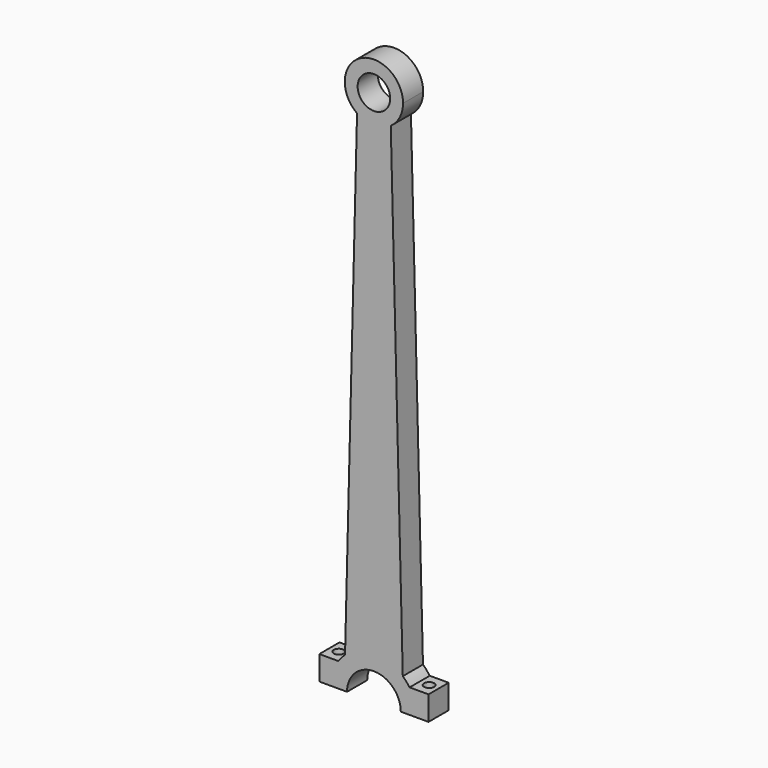
from build123d import *

# Parameters (mm, degrees)
F1_DEPTH = 1.27
F2_DEPTH = 1.27
F3_R     = 0.508
F4_R     = 0.508
F5_DEPTH = 25.4


with BuildPart() as f1:
    # F0 (on Front) → F1 (new body, symmetric)
    with BuildSketch(Plane.XZ):
        with BuildLine():
            ThreePointArc((1.6980241155, -2.3923439956), (0, -2.9337), (-1.6980241155, -2.3923439956))
            Line((-1.6980241155, -2.3923439956), (-2.906111014, -50.7841772133))
            ThreePointArc((-2.906111014, -50.7841772133), (0, -49.6643153071), (2.906111014, -50.7841772133))
            Line((2.906111014, -50.7841772133), (1.6980241155, -2.3923439956))
        make_face()
        with BuildLine():
            ThreePointArc((1.6980241155, -2.3923439956), (2.6065388006, -1.3463102061), (2.9337, 0))
            ThreePointArc((2.9337, 0), (-1.3463102061, 2.6065388006), (-1.6980241155, -2.3923439956))
            Line((-1.6980241155, -2.3923439956), (-1.6383, 0))
            ThreePointArc((-1.6383, 0), (0, 1.6383), (1.6383, 0))
            Line((1.6383, 0), (1.6980241155, -2.3923439956))
        make_face()
        with BuildLine():
            Line((-1.6383, 0), (-1.6980241155, -2.3923439956))
            ThreePointArc((-1.6980241155, -2.3923439956), (0, -2.9337), (1.6980241155, -2.3923439956))
            Line((1.6980241155, -2.3923439956), (1.6383, 0))
            ThreePointArc((1.6383, 0), (0, -1.6383), (-1.6383, 0))
        make_face()
        with BuildLine():
            ThreePointArc((2.906111014, -50.7841772133), (0, -49.6643153071), (-2.906111014, -50.7841772133))
            ThreePointArc((-2.906111014, -50.7841772133), (-3.273195149, -51.1593220926), (-3.5922005773, -51.5761193807))
            Line((-3.5922005773, -51.5761193807), (-3.5922005773, -53.9950153071))
            Line((-3.5922005773, -53.9950153071), (-2.7051, -53.9950153071))
            ThreePointArc((-2.7051, -53.9950153071), (0, -51.2899153071), (2.7051, -53.9950153071))
            Line((2.7051, -53.9950153071), (3.5922005773, -53.9950153071))
            Line((3.5922005773, -53.9950153071), (3.5922005773, -51.5761193807))
            ThreePointArc((3.5922005773, -51.5761193807), (3.273195149, -51.1593220926), (2.906111014, -50.7841772133))
        make_face()
        with BuildLine():
            ThreePointArc((4.3307, -53.9950153071), (4.1419624292, -52.7304562041), (3.5922005773, -51.5761193807))
            Line((3.5922005773, -51.5761193807), (3.5922005773, -53.9950153071))
            Line((3.5922005773, -53.9950153071), (4.3307, -53.9950153071))
        make_face()
        with BuildLine():
            Line((3.5922005773, -51.5533201396), (3.5922005773, -51.5761193807))
            ThreePointArc((3.5922005773, -51.5761193807), (4.1419624292, -52.7304562041), (4.3307, -53.9950153071))
            Line((4.3307, -53.9950153071), (5.4972005773, -53.9950153071))
            Line((5.4972005773, -53.9950153071), (5.4972005773, -51.5533201396))
            Line((5.4972005773, -51.5533201396), (3.5922005773, -51.5533201396))
        make_face()
        with BuildLine():
            Line((-3.5922005773, -53.9950153071), (-3.5922005773, -51.5761193807))
            ThreePointArc((-3.5922005773, -51.5761193807), (-4.1419624292, -52.7304562041), (-4.3307, -53.9950153071))
            Line((-4.3307, -53.9950153071), (-3.5922005773, -53.9950153071))
        make_face()
        with BuildLine():
            ThreePointArc((-4.3307, -53.9950153071), (-4.1419624292, -52.7304562041), (-3.5922005773, -51.5761193807))
            Line((-3.5922005773, -51.5761193807), (-3.5922005773, -51.5533201396))
            Line((-3.5922005773, -51.5533201396), (-5.4972005773, -51.5533201396))
            Line((-5.4972005773, -51.5533201396), (-5.4972005773, -53.9950153071))
            Line((-5.4972005773, -53.9950153071), (-4.3307, -53.9950153071))
        make_face()
    extrude(amount=F1_DEPTH, both=True)

    # F0 (on Front) → F2 (join, symmetric)
    with BuildSketch(Plane.XZ):
        with BuildLine():
            ThreePointArc((1.6980241155, -2.3923439956), (0, -2.9337), (-1.6980241155, -2.3923439956))
            Line((-1.6980241155, -2.3923439956), (-2.906111014, -50.7841772133))
            ThreePointArc((-2.906111014, -50.7841772133), (0, -49.6643153071), (2.906111014, -50.7841772133))
            Line((2.906111014, -50.7841772133), (1.6980241155, -2.3923439956))
        make_face()
        with BuildLine():
            ThreePointArc((1.6980241155, -2.3923439956), (2.6065388006, -1.3463102061), (2.9337, 0))
            ThreePointArc((2.9337, 0), (-1.3463102061, 2.6065388006), (-1.6980241155, -2.3923439956))
            Line((-1.6980241155, -2.3923439956), (-1.6383, 0))
            ThreePointArc((-1.6383, 0), (0, 1.6383), (1.6383, 0))
            Line((1.6383, 0), (1.6980241155, -2.3923439956))
        make_face()
        with BuildLine():
            Line((-1.6383, 0), (-1.6980241155, -2.3923439956))
            ThreePointArc((-1.6980241155, -2.3923439956), (0, -2.9337), (1.6980241155, -2.3923439956))
            Line((1.6980241155, -2.3923439956), (1.6383, 0))
            ThreePointArc((1.6383, 0), (0, -1.6383), (-1.6383, 0))
        make_face()
        with BuildLine():
            ThreePointArc((2.906111014, -50.7841772133), (0, -49.6643153071), (-2.906111014, -50.7841772133))
            ThreePointArc((-2.906111014, -50.7841772133), (-3.273195149, -51.1593220926), (-3.5922005773, -51.5761193807))
            Line((-3.5922005773, -51.5761193807), (-3.5922005773, -53.9950153071))
            Line((-3.5922005773, -53.9950153071), (-2.7051, -53.9950153071))
            ThreePointArc((-2.7051, -53.9950153071), (0, -51.2899153071), (2.7051, -53.9950153071))
            Line((2.7051, -53.9950153071), (3.5922005773, -53.9950153071))
            Line((3.5922005773, -53.9950153071), (3.5922005773, -51.5761193807))
            ThreePointArc((3.5922005773, -51.5761193807), (3.273195149, -51.1593220926), (2.906111014, -50.7841772133))
        make_face()
    extrude(amount=F2_DEPTH, both=True)

    # F3 (on face) + F4 (on face) → F5 (cut)
    with BuildSketch(Plane.XY.offset(-51.5533201396)):
        with Locations((-4.5447005773, 0)):
            Circle(F3_R)
    with BuildSketch(Plane.XY.offset(-51.5533201396)):
        with Locations((4.5447005773, 0)):
            Circle(F4_R)
    extrude(amount=-F5_DEPTH, mode=Mode.SUBTRACT)


solid = f1.part
